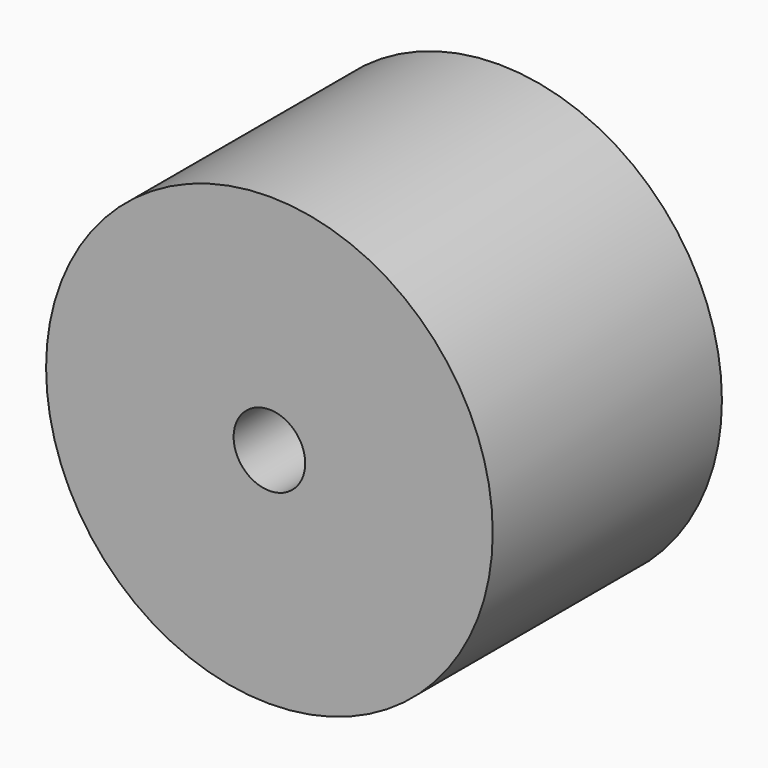
from build123d import *

# Parameters (mm, degrees)
F0_R     = 19.8000843618
F1_DEPTH = 25.4
F2_D     = 6.35


with BuildPart() as f1:
    # F0 (on Front) → F1 (new body)
    with BuildSketch(Plane.XZ):
        with Locations((-23.6751902848, 12.6267680898)):
            Circle(F0_R)
    extrude(amount=F1_DEPTH)

    # F2 (through all)
    with Locations(Plane(origin=(0, 0, 0), x_dir=(1, 0, 0), z_dir=(0, 1, 0))):
        with Locations((-23.6751902848, -12.6267680898)):
            Hole(F2_D / 2)


solid = f1.part
